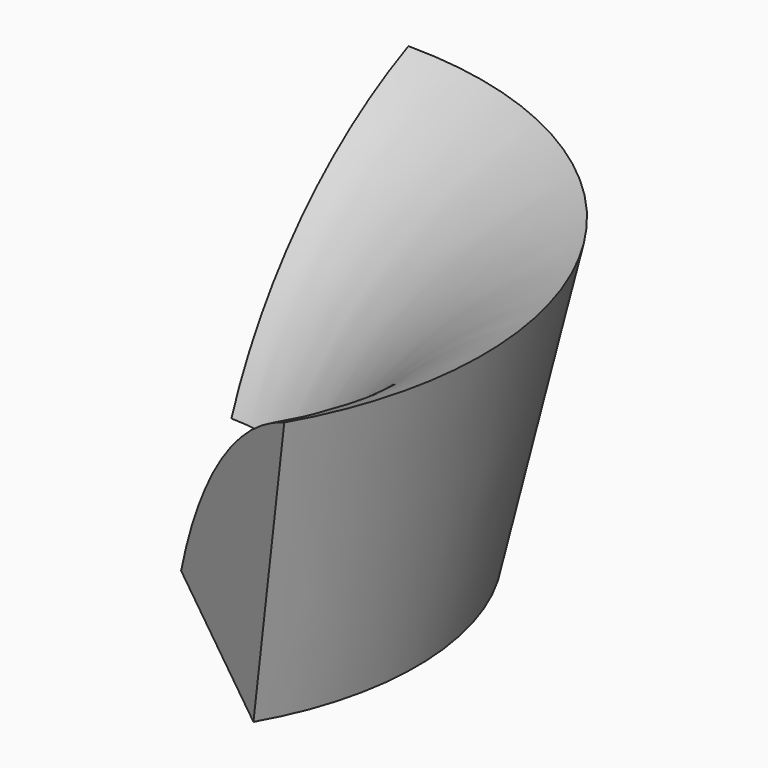
from build123d import *

# Parameters (mm, degrees)
F2_ANGLE_BACK = 90
F2_ANGLE      = 120


with BuildPart() as f2:
    # F0 (on Front) → F2 (revolve)
    with BuildSketch(Plane.XZ, mode=Mode.PRIVATE) as f2_sk:
        with BuildLine():
            ThreePointArc((113.0984465701, -106.2440686194), (72.2305448198, -135.7353635996), (45.7590185737, -178.6210275361))
            Line((45.7590185737, -178.6210275361), (92.9711398687, -196.2123861883))
            Line((92.9711398687, -196.2123861883), (113.0984465701, -106.2440686194))
        make_face()
    revolve(f2_sk.sketch.rotate(Axis((0, 0, 3.3618081361), (0, 0, -1)), -F2_ANGLE_BACK), axis=Axis((0, 0, 3.3618081361), (0, 0, -1)), revolution_arc=F2_ANGLE)


solid = f2.part
